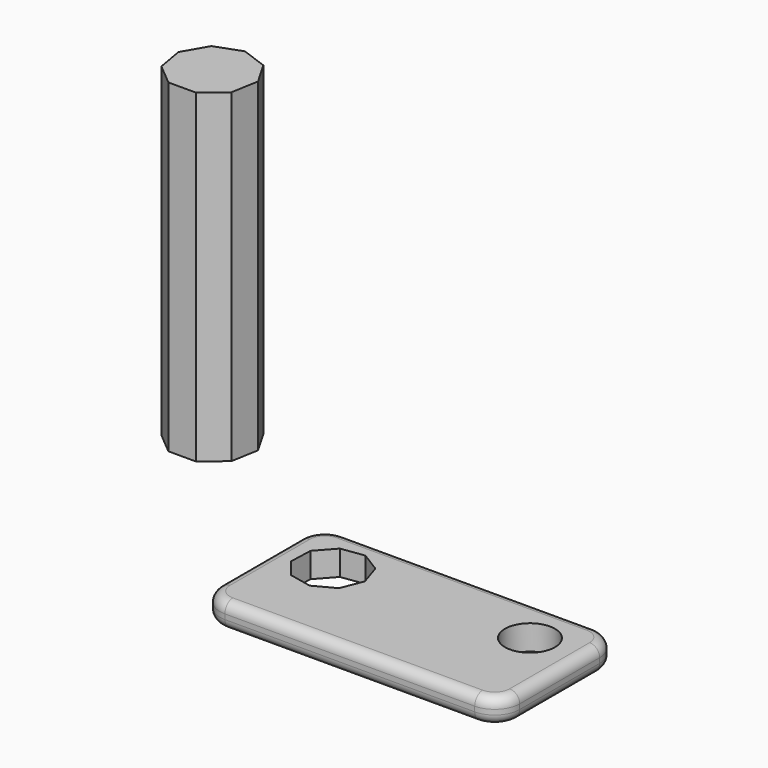
from build123d import *

# Parameters (mm, degrees)
F0_W      = 60
F0_H      = 30
F1_DEPTH  = 5
F2_R      = 5
F3_R      = 2
F4_R      = 2
F5_R      = 5
F6_DEPTH  = 12.5
F8_DEPTH  = 12.5
F10_DEPTH = 65


with BuildPart() as f1:
    # F0 (on Top) → F1 (new body)
    with BuildSketch(Plane.XY):
        with Locations((4.792662, -1.181989)):
            Rectangle(F0_W, F0_H)
    extrude(amount=F1_DEPTH)

    # F2
    f2_edges = [f1.edges().sort_by_distance(p)[0] for p in [
        (-25.207338, -16.181989, 2.5),
        (34.792662, -16.181989, 2.5),
        (34.792662, 13.818011, 2.5),
        (-25.207338, 13.818011, 2.5),
    ]]
    fillet(f2_edges, radius=F2_R)

    # F3
    f3_edges = [f1.edges().sort_by_distance(p)[0] for p in [
        (4.792662, -16.181989, 5),
        (-25.207338, -1.181989, 5),
        (4.792662, 13.818011, 5),
        (34.792662, -1.181989, 5),
    ]]
    fillet(f3_edges, radius=F3_R)

    # F4
    f4_edges = [f1.edges().sort_by_distance(p)[0] for p in [
        (4.792662, -16.181989, 0),
        (-25.207338, -1.181989, 0),
        (4.792662, 13.818011, 0),
        (34.792662, -1.181989, 0),
    ]]
    fillet(f4_edges, radius=F4_R)

    # F5 (on face) → F6 (cut, symmetric)
    with BuildSketch(Plane.XY.offset(5)):
        with Locations((24.527146, 4.22882)):
            Circle(F5_R)
    extrude(amount=-F6_DEPTH, both=True, mode=Mode.SUBTRACT)

    # F7 (on face) → F8 (cut, symmetric)
    with BuildSketch(Plane.XY.offset(5)):
        Polygon((-13.423043, -3.44386), (-9.318605, -1.254827), (-7.581507, 3.060351), (-9.024555, 7.482555), (-12.972532, 9.942586), (-17.578136, 9.289368), (-20.686352, 5.828549), (-20.842813, 1.179485), (-17.974308, -2.482475), align=None)
    extrude(amount=-F8_DEPTH, both=True, mode=Mode.SUBTRACT)


with BuildPart() as f10:
    # F9 (on Top) → F10 (new body)
    with BuildSketch(Plane.XY):
        Polygon((-59.538589, 25.75572), (-55.297336, 29.312899), (-54.334859, 34.764081), (-57.101511, 39.558597), (-62.302745, 41.45304), (-67.504845, 39.560979), (-70.273692, 34.76773), (-69.313711, 29.316108), (-65.074087, 25.756987), align=None)
    extrude(amount=F10_DEPTH)


solid = Compound([f1.part, f10.part])
